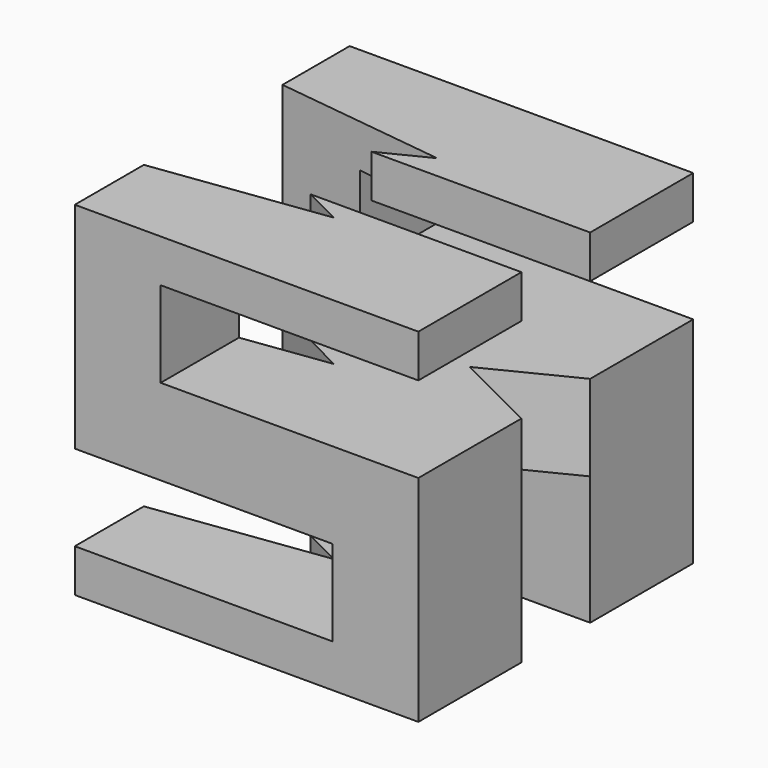
from build123d import *

# Parameters (mm, degrees)
F3_W      = 50.8
F3_H      = 50.8
F4_DEPTH  = 25.4
F4_FACE_W = 50.8
F4_FACE_H = 50.8
F5_DEPTH  = 25.4
F6_W      = 38.1
F6_H      = 12.7
F7_DEPTH  = 76.2
F8_W      = 12.7
F8_H      = 19.05
F9_DEPTH  = 76.2
F11_DEPTH = 76.2


with BuildPart() as f4:
    # F3 (on Front) → F4 (new body)
    with BuildSketch(Plane.XZ):
        Rectangle(F3_W, F3_H)
    extrude(amount=F4_DEPTH)

    # F4_face (on face) → F5 (join)
    with BuildSketch(Plane(origin=(0, 0, 0), x_dir=(1, 0, 0), z_dir=(0, 1, 0))):
        Rectangle(F4_FACE_W, F4_FACE_H)
    extrude(amount=F5_DEPTH)

    # F6 (on offset) → F7 (cut)
    with BuildSketch(Plane.XZ.offset(50.8)):
        with Locations((6.35, 12.7)):
            Rectangle(F6_W, F6_H)
        with Locations((-6.35, -12.7)):
            Rectangle(F6_W, F6_H)
    extrude(amount=-F7_DEPTH, mode=Mode.SUBTRACT)

    # F8 (on offset) → F9 (cut)
    with BuildSketch(Plane.YZ.offset(50.8)):
        with Locations((0, 15.875)):
            Rectangle(F8_W, F8_H)
        with Locations((0, -15.875)):
            Rectangle(F8_W, F8_H)
    extrude(amount=-F9_DEPTH, mode=Mode.SUBTRACT)

    # F10 (on offset) → F11 (cut)
    with BuildSketch(Plane.XY.offset(50.8)):
        Polygon((25.4, -6.35), (25.4, 6.35), (12.7, 0), align=None)
        Polygon((0, 9.817213), (-25.4, 12.992213), (-25.4, -12.633159), (0, -9.232787), (-12.7, -2.882787), (-12.7, 3.467213), align=None)
    extrude(amount=-F11_DEPTH, mode=Mode.SUBTRACT)


solid = f4.part
